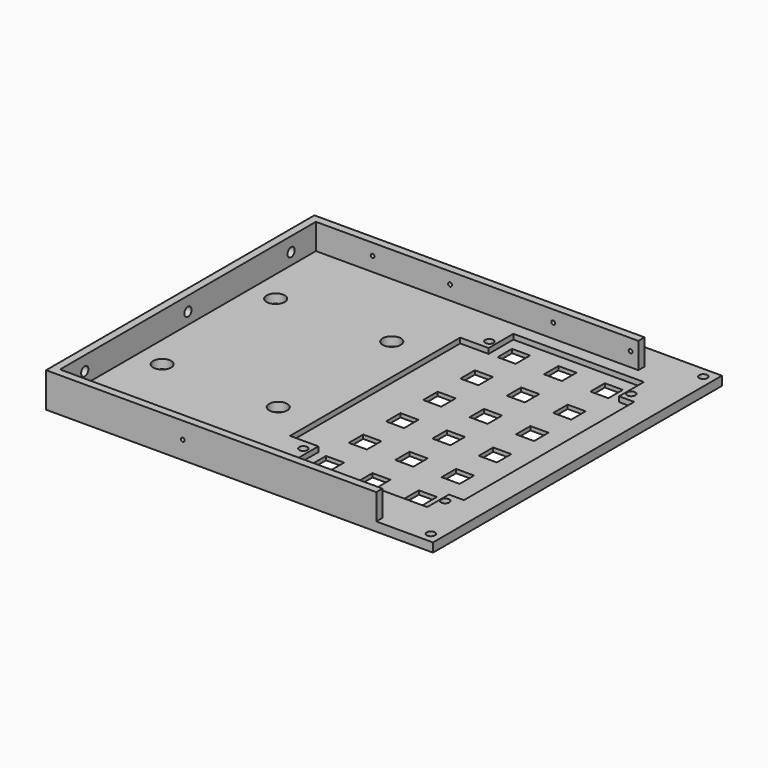
from build123d import *

# Parameters (mm, degrees)
SKETCH013_R     = 3.5
SKETCH013_R_2   = 1.6
SKETCH013_W     = 7
SKETCH013_H     = 7
PAD004_DEPTH    = 3.5
PAD_DEPTH       = 10
SKETCH015_R     = 0.75
POCKET005_DEPTH = 7.5
SKETCH004_R     = 0.75
POCKET006_DEPTH = 10
SKETCH014_R     = 1.75
POCKET007_DEPTH = 5
POCKET_DEPTH    = 2


with BuildPart() as part:
    # Sketch013 → Pad004 (new body)
    with BuildSketch(Plane.XY):
        Polygon((0, 70), (150, 70.000096), (150, -70), (0, -70), align=None)
        with Locations((13, 25)):
            Circle(SKETCH013_R, mode=Mode.SUBTRACT)
        with Locations((58, 25)):
            Circle(SKETCH013_R, mode=Mode.SUBTRACT)
        with Locations((13, -30)):
            Circle(SKETCH013_R, mode=Mode.SUBTRACT)
        with Locations((58, -30)):
            Circle(SKETCH013_R, mode=Mode.SUBTRACT)
        with Locations((146, 66.000096)):
            Circle(SKETCH013_R_2, mode=Mode.SUBTRACT)
        with Locations((146, -66)):
            Circle(SKETCH013_R_2, mode=Mode.SUBTRACT)
        with Locations((81.000022, 43.53967)):
            Circle(SKETCH013_R_2, mode=Mode.SUBTRACT)
        with Locations((136, 43.53967)):
            Circle(SKETCH013_R_2, mode=Mode.SUBTRACT)
        with Locations((80.901087, -46.460276)):
            Circle(SKETCH013_R_2, mode=Mode.SUBTRACT)
        with Locations((135.901066, -46.460276)):
            Circle(SKETCH013_R_2, mode=Mode.SUBTRACT)
        with Locations((90.500022, 43.53967)):
            Rectangle(SKETCH013_W, SKETCH013_H, mode=Mode.SUBTRACT)
        with Locations((108.500011, 43.519883)):
            Rectangle(SKETCH013_W, SKETCH013_H, mode=Mode.SUBTRACT)
        with Locations((126.5, 43.500096)):
            Rectangle(SKETCH013_W, SKETCH013_H, mode=Mode.SUBTRACT)
        with Locations((90.480235, 25.539681)):
            Rectangle(SKETCH013_W, SKETCH013_H, mode=Mode.SUBTRACT)
        with Locations((108.480224, 25.519894)):
            Rectangle(SKETCH013_W, SKETCH013_H, mode=Mode.SUBTRACT)
        with Locations((126.480213, 25.500107)):
            Rectangle(SKETCH013_W, SKETCH013_H, mode=Mode.SUBTRACT)
        with Locations((90.460448, 7.539692)):
            Rectangle(SKETCH013_W, SKETCH013_H, mode=Mode.SUBTRACT)
        with Locations((108.460437, 7.519905)):
            Rectangle(SKETCH013_W, SKETCH013_H, mode=Mode.SUBTRACT)
        with Locations((126.460426, 7.500118)):
            Rectangle(SKETCH013_W, SKETCH013_H, mode=Mode.SUBTRACT)
        with Locations((90.440661, -10.460297)):
            Rectangle(SKETCH013_W, SKETCH013_H, mode=Mode.SUBTRACT)
        with Locations((108.44065, -10.480084)):
            Rectangle(SKETCH013_W, SKETCH013_H, mode=Mode.SUBTRACT)
        with Locations((126.440639, -10.499871)):
            Rectangle(SKETCH013_W, SKETCH013_H, mode=Mode.SUBTRACT)
        with Locations((90.420874, -28.460286)):
            Rectangle(SKETCH013_W, SKETCH013_H, mode=Mode.SUBTRACT)
        with Locations((108.420863, -28.480073)):
            Rectangle(SKETCH013_W, SKETCH013_H, mode=Mode.SUBTRACT)
        with Locations((126.420852, -28.49986)):
            Rectangle(SKETCH013_W, SKETCH013_H, mode=Mode.SUBTRACT)
        with Locations((90.401087, -46.460276)):
            Rectangle(SKETCH013_W, SKETCH013_H, mode=Mode.SUBTRACT)
        with Locations((108.401076, -46.480062)):
            Rectangle(SKETCH013_W, SKETCH013_H, mode=Mode.SUBTRACT)
        with Locations((126.401066, -46.499849)):
            Rectangle(SKETCH013_W, SKETCH013_H, mode=Mode.SUBTRACT)
    extrude(amount=PAD004_DEPTH)

    # Sketch001 → Pad (join)
    with BuildSketch(Plane.XY.offset(3.5)):
        Polygon((0, 60), (3, 60), (128, 60), (128, 57), (3, 57), (3, -67), (128, -67), (128, -70), (3, -70), (0, -70), align=None)
    extrude(amount=PAD_DEPTH)

    # Sketch015 → Pocket005 (cut, symmetric)
    with BuildSketch(Plane.XZ.offset(65)):
        with Locations((53, 7)):
            Circle(SKETCH015_R)
    extrude(amount=POCKET005_DEPTH, both=True, mode=Mode.SUBTRACT)

    # Sketch004 → Pocket006 (cut, symmetric)
    with BuildSketch(Plane.XZ.offset(-55)):
        with Locations((25, 9)):
            Circle(SKETCH004_R)
        with Locations((95, 9)):
            Circle(SKETCH004_R)
        with Locations((55, 9)):
            Circle(SKETCH004_R)
        with Locations((125, 9)):
            Circle(SKETCH004_R)
    extrude(amount=POCKET006_DEPTH, both=True, mode=Mode.SUBTRACT)

    # Sketch014 → Pocket007 (cut)
    with BuildSketch(Plane.YZ):
        with Locations((45, 8)):
            Circle(SKETCH014_R)
        with Locations((-5, 8)):
            Circle(SKETCH014_R)
        with Locations((-55, 8)):
            Circle(SKETCH014_R)
    extrude(amount=POCKET007_DEPTH, mode=Mode.SUBTRACT)

    # Sketch → Pocket (cut)
    with BuildSketch(Plane.XY.offset(3.5)):
        Polygon((83.55, 52), (134.15, 52), (134.15, 40), (140, 40), (140, -42.5), (134.15, -42.5), (134.15, -53), (83.55, -53), (83.55, -42.5), (72.55, -42.5), (72.55, 40), (83.55, 40), align=None)
    extrude(amount=-POCKET_DEPTH, mode=Mode.SUBTRACT)


solid = part.part
